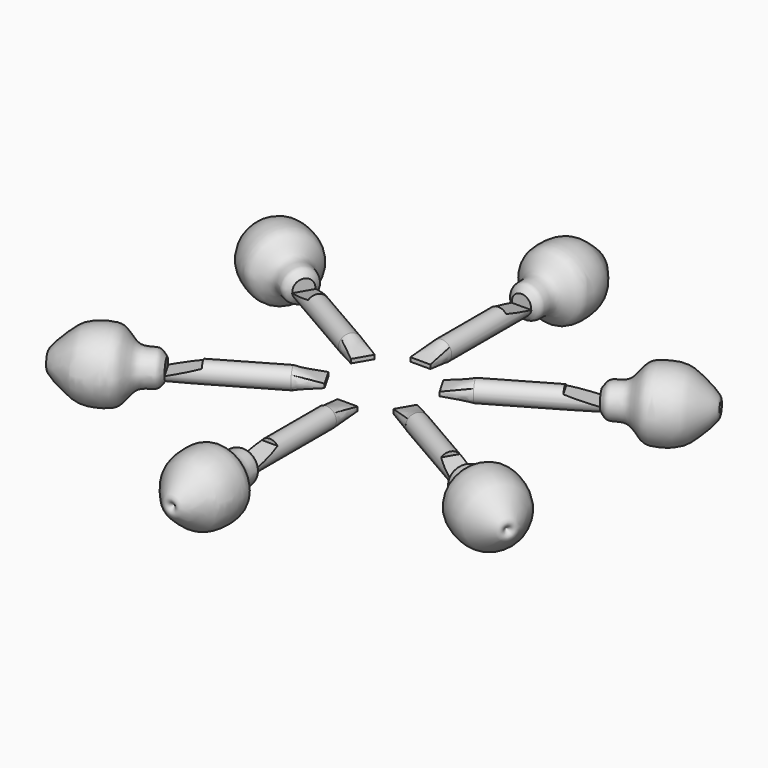
from build123d import *

# Parameters (mm, degrees)
F2_W      = 76.2
F2_H      = 15.24
F5_R      = 38.0887285906
F6_DEPTH  = 381
F8_DEPTH  = 76.2
F12_COUNT = 6


with BuildPart() as f3:
    # F1 (on Front) → F3 section 0
    with BuildSketch(Plane.XZ):
        with BuildLine():
            ThreePointArc((30.8890536, 22.3041782565), (1.4176266646, 38.0736173044), (-29.1448850093, 24.539471832))
            ThreePointArc((-29.1448850093, 24.539471832), (-38.0625074336, -1.689830722), (-26.8555881719, -27.0256800829))
            ThreePointArc((-26.8555881719, -27.0256800829), (0.7960074599, -38.0916837659), (27.9611693446, -25.8801663225))
            ThreePointArc((27.9611693446, -25.8801663225), (38.0298560448, -2.3108546504), (30.8890536, 22.3041782565))
        make_face()
    # F2 (on offset) → F3 section 1
    with BuildSketch(Plane.XZ.offset(101.6)):
        Rectangle(F2_W, F2_H)
    loft()

    # F5 (on offset) → F6 (join)
    with BuildSketch(Plane.XZ):
        Circle(F5_R)
    extrude(amount=-F6_DEPTH)

    # F7 (on Right) → F8 (cut, symmetric)
    with BuildSketch(Plane.YZ):
        Polygon((425.4721701145, 74.5364502072), (269.917845726, 75.7148936391), (269.917845726, 55.0921596587), (269.917845726, 23.5688388348), (401.3141393661, -10.9005859122), (401.3141393661, -27.3987725377), (244.5813566446, -34.4694256783), (233.0915480852, -48.6107245088), (233.0915480852, -63.3412450552), (428.7129044533, -49.7891679406), align=None)
    extrude(amount=F8_DEPTH, both=True, mode=Mode.SUBTRACT)

    # F9 (on Top) → F10 (revolve)
    with BuildSketch(Plane.XY):
        with BuildLine():
            add(Edge.make_bspline(
                [(-36.5536734462, 380.9095621109), (-47.0904863514, 387.507259933), (-70.82500885, 402.3687943273), (-53.5624798461, 467.1559771376), (-119.3332294659, 504.4829358142), (-132.9109231221, 544.9684456053), (-130.6438406643, 635.3368583914), (-91.0153402086, 681.0835374664), (-28.3477565921, 755.3947520394), (-7.847736599, 731.7389947664), (0, 722.6831912994)],
                knots=[0, 0, 0, 0, 0.0989709165, 0.2229352904, 0.3580505361, 0.466595435, 0.6187381524, 0.7559558552, 0.9065759854, 1, 1, 1, 1], degree=3))
            Line((-36.5536734462, 380.9095621109), (0, 380.9095621109))
            Line((0, 380.9095621109), (0, 722.6831912994))
        make_face()
    revolve(axis=Axis((0, 551.7963767052, 0), (0, -1, 0)))


with BuildPart() as f12_1:
    # F12: instance of F3
    add(f3.part.rotate(Axis((0, -274.9858498573, -42.6843576133), (0, 0, 1)), 1 * 360 / F12_COUNT))


with BuildPart() as f12_2:
    # F12: instance of F3
    add(f3.part.rotate(Axis((0, -274.9858498573, -42.6843576133), (0, 0, 1)), 2 * 360 / F12_COUNT))


with BuildPart() as f12_3:
    # F12: instance of F3
    add(f3.part.rotate(Axis((0, -274.9858498573, -42.6843576133), (0, 0, 1)), 3 * 360 / F12_COUNT))


with BuildPart() as f12_4:
    # F12: instance of F3
    add(f3.part.rotate(Axis((0, -274.9858498573, -42.6843576133), (0, 0, 1)), 4 * 360 / F12_COUNT))


with BuildPart() as f12_5:
    # F12: instance of F3
    add(f3.part.rotate(Axis((0, -274.9858498573, -42.6843576133), (0, 0, 1)), 5 * 360 / F12_COUNT))


solid = Compound([f3.part, f12_1.part, f12_2.part, f12_3.part, f12_4.part, f12_5.part])
